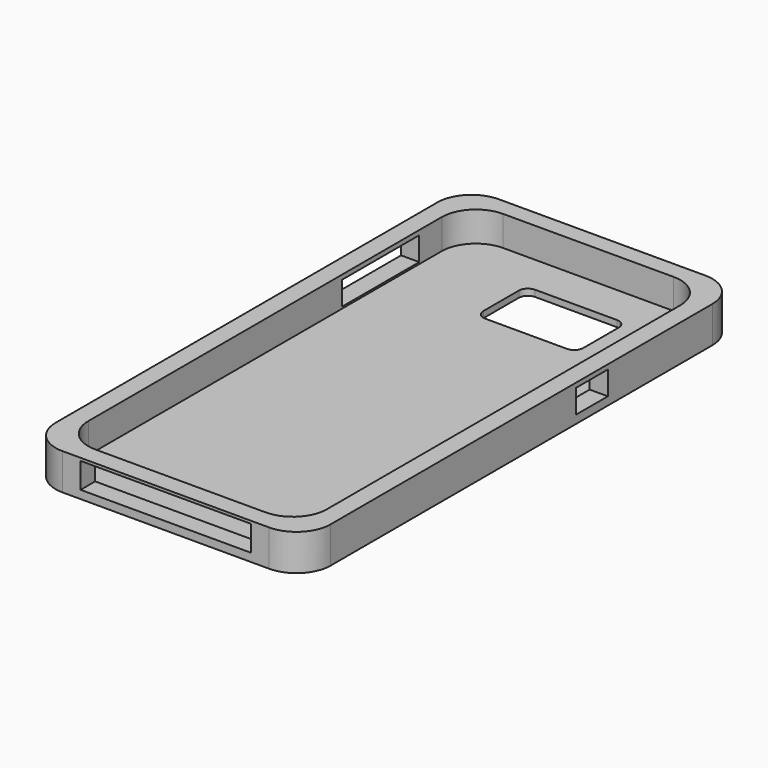
from build123d import *

# Parameters (mm, degrees)
F0_W      = 66.675
F0_H      = 142.24
F1_DEPTH  = 10.16
F2_W      = 66.675
F2_H      = 142.494
F3_DEPTH  = 8.382
F4_R      = 9.525
F5_W      = 47.625
F5_H      = 5.08
F5_W_2    = 5.08
F5_H_2    = 11.1125
F5_H_3    = 26.9875
F6_DEPTH  = 7.874
F7_W      = 27.94
F7_H      = 17.4625
F8_DEPTH  = 2.286
F9_R      = 2.54
F10_W     = 5.08
F10_H     = 26.9875
F11_DEPTH = 1.27
F12_W     = 5.08
F12_H     = 11.1125
F13_DEPTH = 1.27
F14_W     = 47.625
F14_H     = 5.08
F15_DEPTH = 0.762


with BuildPart() as f1:
    # F0 (on Top) → F1 (new body)
    with BuildSketch(Plane.XY):
        Polygon((-38.4175, -76.2), (-33.3375, -76.2), (38.4175, -76.2), (38.4175, 76.2), (-38.4175, 76.2), align=None)
        Rectangle(F0_W, F0_H, mode=Mode.SUBTRACT)
        Rectangle(F0_W, F0_H)
    extrude(amount=F1_DEPTH)

    # F2 (on face) → F3 (cut)
    with BuildSketch(Plane.XY.offset(10.16)):
        with Locations((0, 0.127)):
            Rectangle(F2_W, F2_H)
    extrude(amount=-F3_DEPTH, mode=Mode.SUBTRACT)

    # F4
    f4_edges = [f1.edges().sort_by_distance(p)[0] for p in [
        (-38.4175, 76.2, 5.08),
        (-38.4175, -76.2, 5.08),
        (-33.3375, 71.374, 5.969),
        (-33.3375, -71.12, 5.969),
        (33.3375, -71.12, 5.969),
        (38.4175, -76.2, 5.08),
        (38.4175, 76.2, 5.08),
        (33.3375, 71.374, 5.969),
    ]]
    fillet(f4_edges, radius=F4_R)

    # F5 (on face) → F6 (cut)
    with BuildSketch(Plane.XY.offset(10.16)):
        with Locations((0, -73.66)):
            Rectangle(F5_W, F5_H)
        with Locations((35.8775, 24.60625)):
            Rectangle(F5_W_2, F5_H_2)
        with Locations((-35.8775, 40.48125)):
            Rectangle(F5_W_2, F5_H_3)
    extrude(amount=-F6_DEPTH, mode=Mode.SUBTRACT)

    # F7 (on face) → F8 (cut)
    with BuildSketch(Plane(origin=(0, 0, 0), x_dir=(1, 0, 0), z_dir=(0, 0, -1))):
        with Locations((5.3975, -51.59375)):
            Rectangle(F7_W, F7_H)
    extrude(amount=-F8_DEPTH, mode=Mode.SUBTRACT)

    # F9
    f9_edges = [f1.edges().sort_by_distance(p)[0] for p in [
        (19.3675, 60.325, 0.889),
        (-8.5725, 60.325, 0.889),
        (-8.5725, 42.8625, 0.889),
        (19.3675, 42.8625, 0.889),
    ]]
    fillet(f9_edges, radius=F9_R)

    # F10 (on face) → F11 (join)
    with BuildSketch(Plane.XY.offset(10.16)):
        with Locations((-35.8775, 40.48125)):
            Rectangle(F10_W, F10_H)
    extrude(amount=-F11_DEPTH)

    # F12 (on face) → F13 (join)
    with BuildSketch(Plane.XY.offset(10.16)):
        with Locations((35.8775, 24.60625)):
            Rectangle(F12_W, F12_H)
    extrude(amount=-F13_DEPTH)

    # F14 (on face) → F15 (join)
    with BuildSketch(Plane.XY.offset(10.16)):
        with Locations((0, -73.66)):
            Rectangle(F14_W, F14_H)
    extrude(amount=-F15_DEPTH)


solid = f1.part
